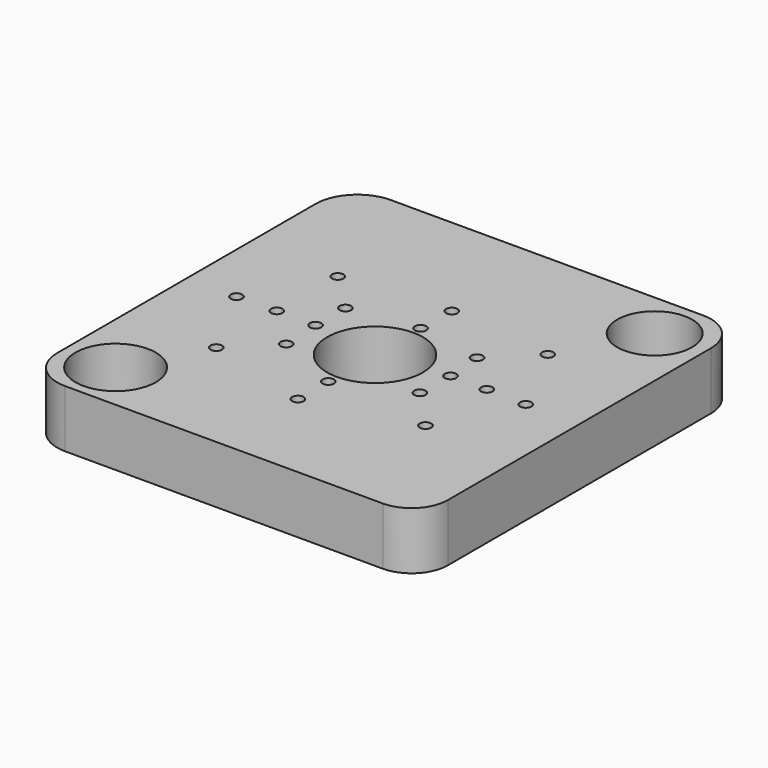
from build123d import *

# Parameters (mm, degrees)
SKETCH_R   = 25
SKETCH_R_2 = 21
SKETCH_R_3 = 19.584537
SKETCH_R_4 = 3
PAD_DEPTH  = 30


with BuildPart() as part:
    # Sketch → Pad (new body)
    with BuildSketch(Plane.XY):
        with BuildLine():
            Line((-81.3335, -100.607731), (84.558204, -100.607731))
            ThreePointArc((84.558204, -100.607731), (97.89969, -95.081507), (103.425914, -81.740021))
            Line((103.425914, -81.740021), (103.425914, 90.030335))
            ThreePointArc((103.425914, 90.030335), (97.36226, 104.66929), (82.723305, 110.732944))
            Line((82.723305, 110.732944), (-80.274155, 110.732944))
            ThreePointArc((-80.274155, 110.732944), (-95.743365, 104.325387), (-102.150922, 88.856177))
            Line((-102.150922, 88.856177), (-102.150922, -79.790309))
            ThreePointArc((-102.150922, -79.790309), (-96.05364, -94.510449), (-81.3335, -100.607731))
        make_face()
        with Locations((0.050005, -0.019529)):
            Circle(SKETCH_R, mode=Mode.SUBTRACT)
        with Locations((-75.610901, -74.830917)):
            Circle(SKETCH_R_2, mode=Mode.SUBTRACT)
        with Locations((77.328041, 85.966019)):
            Circle(SKETCH_R_3, mode=Mode.SUBTRACT)
        with Locations((-35.160095, 24.638546)):
            Circle(SKETCH_R_4, mode=Mode.SUBTRACT)
        with Locations((-35.160095, 5.214603)):
            Circle(SKETCH_R_4, mode=Mode.SUBTRACT)
        with Locations((-55.447323, 5.214603)):
            Circle(SKETCH_R_4, mode=Mode.SUBTRACT)
        with Locations((-76.166206, 4.782958)):
            Circle(SKETCH_R_4, mode=Mode.SUBTRACT)
        with Locations((-55.015682, 44.494133)):
            Circle(SKETCH_R_4, mode=Mode.SUBTRACT)
        with Locations((-0.039441, 29.828697)):
            Circle(SKETCH_R_4, mode=Mode.SUBTRACT)
        with Locations((0.392204, 49.684288)):
            Circle(SKETCH_R_4, mode=Mode.SUBTRACT)
        with Locations((34.150871, 23.956688)):
            Circle(SKETCH_R_4, mode=Mode.SUBTRACT)
        with Locations((54.869728, 44.243923)):
            Circle(SKETCH_R_4, mode=Mode.SUBTRACT)
        with Locations((35.753071, 4.591456)):
            Circle(SKETCH_R_4, mode=Mode.SUBTRACT)
        with Locations((54.74538, 4.591456)):
            Circle(SKETCH_R_4, mode=Mode.SUBTRACT)
        with Locations((75.464256, 4.159811)):
            Circle(SKETCH_R_4, mode=Mode.SUBTRACT)
        with Locations((-34.173149, -15.264144)):
            Circle(SKETCH_R_4, mode=Mode.SUBTRACT)
        with Locations((-54.460381, -35.551373)):
            Circle(SKETCH_R_4, mode=Mode.SUBTRACT)
        with Locations((-0.073334, -30.371653)):
            Circle(SKETCH_R_4, mode=Mode.SUBTRACT)
        with Locations((-0.073334, -50.227249)):
            Circle(SKETCH_R_4, mode=Mode.SUBTRACT)
        with Locations((35.321426, -14.832499)):
            Circle(SKETCH_R_4, mode=Mode.SUBTRACT)
        with Locations((55.177025, -35.983017)):
            Circle(SKETCH_R_4, mode=Mode.SUBTRACT)
    extrude(amount=PAD_DEPTH)


solid = part.part
